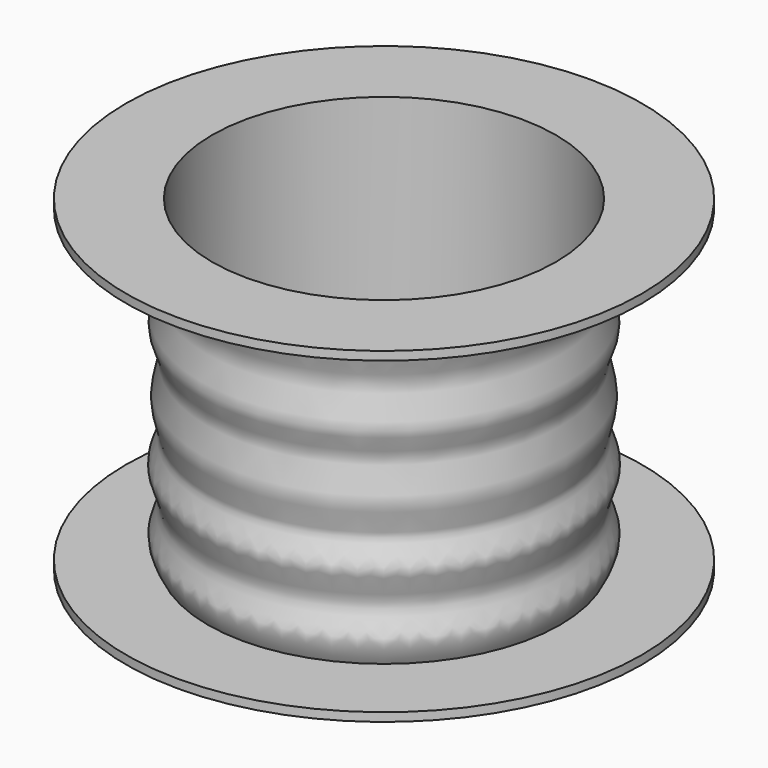
from build123d import *


with BuildPart() as f1:
    # F0 (on Front) → F1 (revolve)
    with BuildSketch(Plane.XZ):
        with BuildLine():
            Line((-300, -81.5633533741), (-200, -81.5633533741))
            Line((-200, -81.5633533741), (-200, 298.4366466259))
            Line((-200, 298.4366466259), (-300, 298.4366466259))
            Line((-300, 298.4366466259), (-300, 288.4366466259))
            Line((-300, 288.4366466259), (-205, 288.4366466259))
            add(Edge.make_bspline(
                [(-205, 288.4366466259), (-210.3818871874, 275.8098672753), (-221.1044888185, 250.6529065017), (-196.3745648791, 214.6324849513), (-222.5562802048, 170.8480999288), (-196.9176800335, 138.6079105968), (-219.6720890436, 95.116494721), (-197.0055342445, 59.2431559941), (-223.2502306168, 27.1200445813), (-196.3531859705, -9.868242196), (-220.3617412335, -42.8174571629), (-210.0018909648, -62.2034874353), (-205, -71.5633533741)],
                knots=[0, 0, 0, 0, 0.1022124274, 0.2036429049, 0.3122283303, 0.4091441482, 0.5172571253, 0.6168720277, 0.7122608262, 0.8136912833, 0.9100473595, 1, 1, 1, 1], degree=3))
            Line((-205, -71.5633533741), (-300, -71.5633533741))
            Line((-300, -71.5633533741), (-300, -81.5633533741))
        make_face()
    revolve(axis=Axis((0, 0, -118.8803736179), (0, 0, -1)))


solid = f1.part
